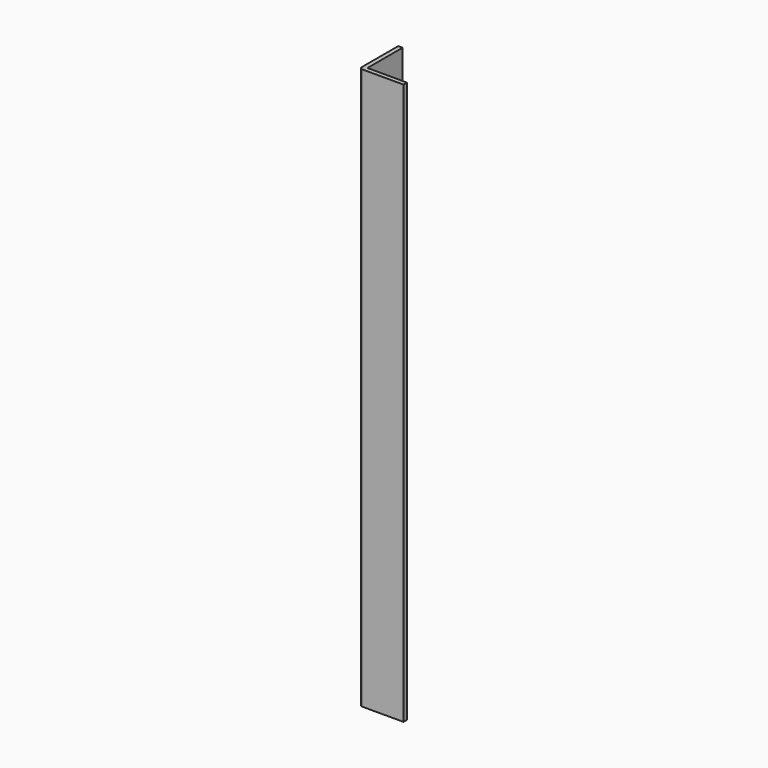
from build123d import *

# Parameters (mm, degrees)
F0_W     = 1.016
F0_H     = 10.16
F1_DEPTH = 129.794
F2_R     = 0.635


with BuildPart() as f1:
    # F0 (on Top) → F1 (new body)
    with BuildSketch(Plane.XY):
        Polygon((0, -1.016), (0, 0), (-9.144, 0), (-10.16, 0), (-10.16, -1.016), align=None)
        with Locations((-9.652, 5.08)):
            Rectangle(F0_W, F0_H)
    extrude(amount=F1_DEPTH)

    # F2
    f2_edges = [f1.edges().sort_by_distance(p)[0] for p in [
        (-10.16, -1.016, 64.897),
    ]]
    fillet(f2_edges, radius=F2_R)


solid = f1.part
